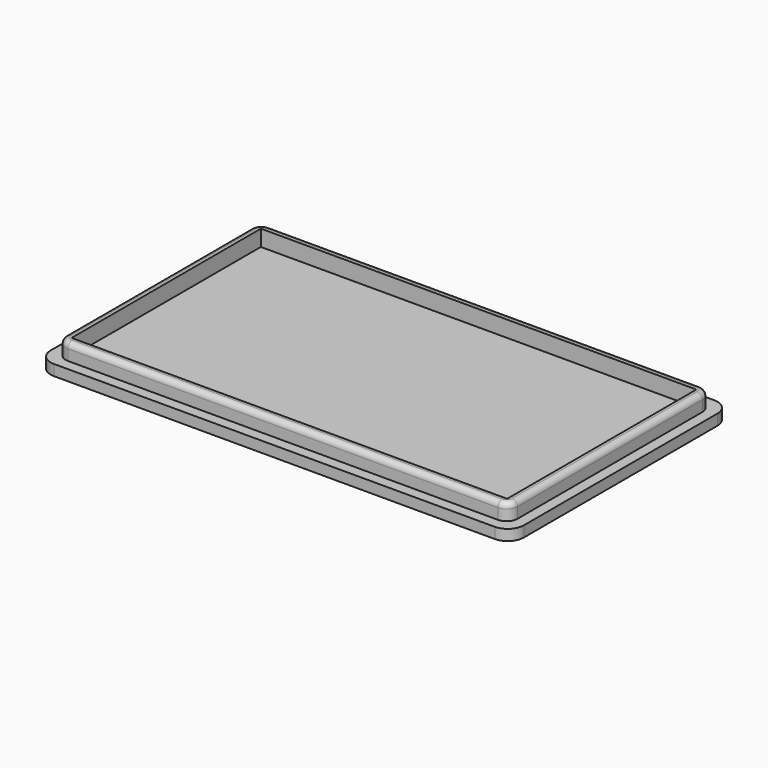
from build123d import *

# Parameters (mm, degrees)
F0_W     = 81
F0_H     = 44
F1_DEPTH = 2
F2_DEPTH = 5
F3_R     = 1


with BuildPart() as f1:
    # F0 (on Top) → F1 (new body)
    with BuildSketch(Plane.XY):
        with BuildLine():
            Line((-41, -25.5), (41, -25.5))
            ThreePointArc((41, -25.5), (43.1213203436, -24.6213203436), (44, -22.5))
            Line((44, -22.5), (44, 22.5))
            ThreePointArc((44, 22.5), (43.1213203436, 24.6213203436), (41, 25.5))
            Line((41, 25.5), (-41, 25.5))
            ThreePointArc((-41, 25.5), (-43.1213203436, 24.6213203436), (-44, 22.5))
            Line((-44, 22.5), (-44, -22.5))
            ThreePointArc((-44, -22.5), (-43.1213203436, -24.6213203436), (-41, -25.5))
        make_face()
        with BuildLine():
            Line((-40, 23.5), (40, 23.5))
            ThreePointArc((40, 23.5), (41.4142135624, 22.9142135624), (42, 21.5))
            Line((42, 21.5), (42, -21.5))
            ThreePointArc((42, -21.5), (41.4142135624, -22.9142135624), (40, -23.5))
            Line((40, -23.5), (-40, -23.5))
            ThreePointArc((-40, -23.5), (-41.4142135624, -22.9142135624), (-42, -21.5))
            Line((-42, -21.5), (-42, 21.5))
            ThreePointArc((-42, 21.5), (-41.4142135624, 22.9142135624), (-40, 23.5))
        make_face(mode=Mode.SUBTRACT)
        with BuildLine():
            ThreePointArc((42, 21.5), (41.4142135624, 22.9142135624), (40, 23.5))
            Line((40, 23.5), (-40, 23.5))
            ThreePointArc((-40, 23.5), (-41.4142135624, 22.9142135624), (-42, 21.5))
            Line((-42, 21.5), (-42, -21.5))
            ThreePointArc((-42, -21.5), (-41.4142135624, -22.9142135624), (-40, -23.5))
            Line((-40, -23.5), (40, -23.5))
            ThreePointArc((40, -23.5), (41.4142135624, -22.9142135624), (42, -21.5))
            Line((42, -21.5), (42, 21.5))
        make_face()
        Rectangle(F0_W, F0_H, mode=Mode.SUBTRACT)
        Rectangle(F0_W, F0_H)
    extrude(amount=F1_DEPTH)

    # F0 (on Top) → F2 (join)
    with BuildSketch(Plane.XY):
        with BuildLine():
            ThreePointArc((42, 21.5), (41.4142135624, 22.9142135624), (40, 23.5))
            Line((40, 23.5), (-40, 23.5))
            ThreePointArc((-40, 23.5), (-41.4142135624, 22.9142135624), (-42, 21.5))
            Line((-42, 21.5), (-42, -21.5))
            ThreePointArc((-42, -21.5), (-41.4142135624, -22.9142135624), (-40, -23.5))
            Line((-40, -23.5), (40, -23.5))
            ThreePointArc((40, -23.5), (41.4142135624, -22.9142135624), (42, -21.5))
            Line((42, -21.5), (42, 21.5))
        make_face()
        Rectangle(F0_W, F0_H, mode=Mode.SUBTRACT)
    extrude(amount=F2_DEPTH)

    # F3
    f3_edges = [f1.edges().sort_by_distance(p)[0] for p in [
        (-42, 0, 5),
    ]]
    fillet(f3_edges, radius=F3_R)


solid = f1.part
